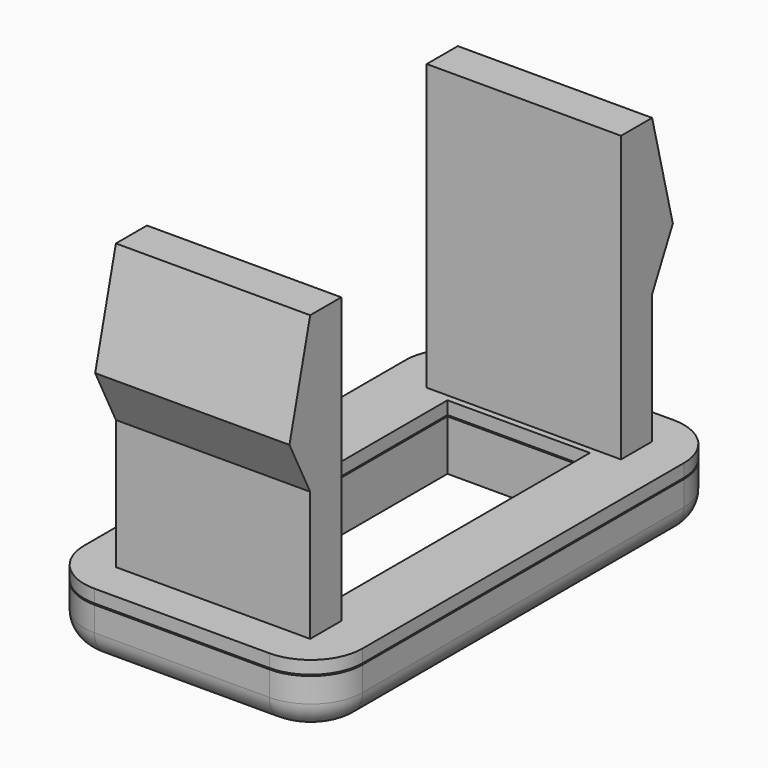
from build123d import *

# Parameters (mm, degrees)
F0_W      = 21.5
F0_H      = 39
F1_DEPTH  = 5
F2_W      = 15
F2_H      = 3
F3_DEPTH  = 22
F5_DEPTH  = 15
F6_R      = 4
F7_R      = 2
F8_W      = 11
F8_H      = 26
F9_DEPTH  = 6
F10_W     = 31
F10_H     = 0.1
F10_W_2   = 5.1652195826
F10_W_3   = 13.8347804174
F11_DEPTH = 40


with BuildPart() as f1:
    # F0 (on Top) → F1 (new body)
    with BuildSketch(Plane.XY):
        with Locations((10.75, 19.5)):
            Rectangle(F0_W, F0_H)
    extrude(amount=F1_DEPTH)

    # F2 (on face) → F3 (join)
    with BuildSketch(Plane.XY.offset(5)):
        with Locations((10.75, 34.5)):
            Rectangle(F2_W, F2_H)
        with Locations((10.75, 4.5)):
            Rectangle(F2_W, F2_H)
    extrude(amount=F3_DEPTH)

    # F4 (on face) → F5 (join)
    with BuildSketch(Plane(origin=(3.25, 0, 0), x_dir=(0, -1, 0), z_dir=(-1, 0, 0))):
        Polygon((-36, 15), (-36, 27), (-38, 19), align=None)
        Polygon((-1, 19), (-3, 27), (-3, 15), align=None)
    extrude(amount=-F5_DEPTH)

    # F6
    f6_edges = [f1.edges().sort_by_distance(p)[0] for p in [
        (0, 39, 2.5),
        (0, 0, 2.5),
        (21.5, 0, 2.5),
        (21.5, 39, 2.5),
    ]]
    fillet(f6_edges, radius=F6_R)

    # F7
    f7_edges = [f1.edges().sort_by_distance(p)[0] for p in [
        (0, 19.5, 0),
        (1.171573, 37.828427, 0),
        (1.171573, 1.171573, 0),
        (10.75, 39, 0),
        (10.75, 0, 0),
        (20.328427, 37.828427, 0),
        (20.328427, 1.171573, 0),
        (21.5, 19.5, 0),
    ]]
    fillet(f7_edges, radius=F7_R)

    # F8 (on face) → F9 (cut)
    with BuildSketch(Plane.XY.offset(5)):
        with Locations((10.75, 19.5)):
            Rectangle(F8_W, F8_H)
    extrude(amount=-F9_DEPTH, mode=Mode.SUBTRACT)

    # F10 (on face) → F11 (cut)
    with BuildSketch(Plane.YZ.offset(21.5)):
        with Locations((19.5, 3.95)):
            Rectangle(F10_W, F10_H)
        with Locations((1.4173902087, 3.95)):
            Rectangle(F10_W_2, F10_H)
        with Locations((41.9173902087, 3.95)):
            Rectangle(F10_W_3, F10_H)
    extrude(amount=-F11_DEPTH, mode=Mode.SUBTRACT)


solid = f1.part
